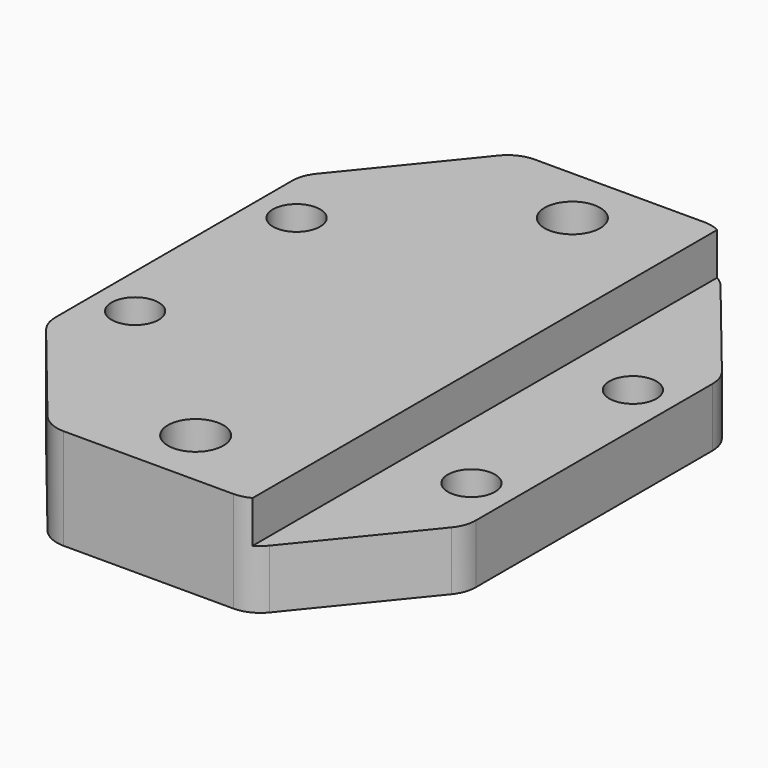
from build123d import *

# Parameters (mm, degrees)
SKETCH_R        = 2.8
PAD_DEPTH       = 12
SKETCH001_R     = 3.3
POCKET_DEPTH    = 12.001
POCKET001_DEPTH = 6
FILLET_R        = 4
SKETCH003_W     = 13
SKETCH003_H     = 70
POCKET002_DEPTH = 5


with BuildPart() as part:
    # Sketch → Pad (new body)
    with BuildSketch(Plane.XY):
        Polygon((50, 0), (50, 38), (37, 54), (13, 54), (0, 38), (0, 0), (13, -16), (37, -16), align=None)
        with Locations((5, 31)):
            Circle(SKETCH_R, mode=Mode.SUBTRACT)
        with Locations((45, 31)):
            Circle(SKETCH_R, mode=Mode.SUBTRACT)
        with Locations((45, 7)):
            Circle(SKETCH_R, mode=Mode.SUBTRACT)
        with Locations((5, 7)):
            Circle(SKETCH_R, mode=Mode.SUBTRACT)
    extrude(amount=PAD_DEPTH)

    # Sketch001 (on Face14 of Pad) → Pocket (cut, through all)
    with BuildSketch(Plane.XY.offset(12)):
        with Locations((25, 47)):
            Circle(SKETCH001_R)
        with Locations((25, -9)):
            Circle(SKETCH001_R)
    extrude(amount=-POCKET_DEPTH, mode=Mode.SUBTRACT)

    # Sketch002 (on Face4 of Pocket) → Pocket001 (cut)
    with BuildSketch(Plane(origin=(0, 0, 0), x_dir=(1, 0, 0), z_dir=(0, 0, -1))):
        Polygon((27.973354, -52.15), (30.946708, -47), (27.973354, -41.85), (22.026646, -41.85), (19.053292, -47), (22.026646, -52.15), align=None)
        Polygon((27.973354, 3.85), (30.946708, 9), (27.973354, 14.15), (22.026646, 14.15), (19.053292, 9), (22.026646, 3.85), align=None)
    extrude(amount=-POCKET001_DEPTH, mode=Mode.SUBTRACT)

    # Fillet
    fillet_edges = [part.edges().sort_by_distance(p)[0] for p in [
        (0, 38, 6),
        (13, 54, 6),
        (37, 54, 6),
        (0, 0, 6),
        (13, -16, 6),
        (37, -16, 6),
        (50, 0, 6),
        (50, 38, 6),
    ]]
    fillet(fillet_edges, radius=FILLET_R)

    # Sketch003 (on Face5 of Fillet) → Pocket002 (cut)
    with BuildSketch(Plane.XY.offset(12)):
        with Locations((43.5, 19)):
            Rectangle(SKETCH003_W, SKETCH003_H)
    extrude(amount=-POCKET002_DEPTH, mode=Mode.SUBTRACT)


solid = part.part
